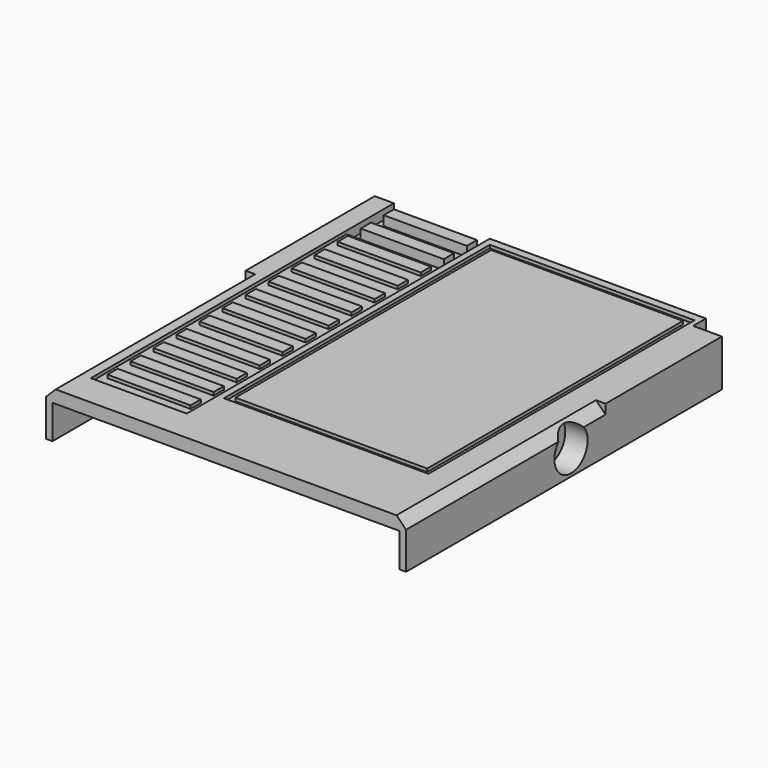
from build123d import *

# Parameters (mm, degrees)
BOX017_W       = 30
BOX017_H       = 50
BOX017_DEPTH   = 0.5
BOX020_W       = 13
BOX020_H       = 2
BOX020_DEPTH   = 1
BOX021_W       = 13
BOX021_H       = 2
BOX021_DEPTH   = 1
BOX022_W       = 13
BOX022_H       = 2
BOX022_DEPTH   = 1
BOX023_W       = 13
BOX023_H       = 2
BOX023_DEPTH   = 1
BOX024_W       = 13
BOX024_H       = 2
BOX024_DEPTH   = 1
BOX025_W       = 13
BOX025_H       = 2
BOX025_DEPTH   = 1
BOX030_W       = 13
BOX030_H       = 2
BOX030_DEPTH   = 1
BOX031_W       = 13
BOX031_H       = 2
BOX031_DEPTH   = 1
BOX032_W       = 13
BOX032_H       = 2
BOX032_DEPTH   = 1
BOX034_W       = 13
BOX034_H       = 2
BOX034_DEPTH   = 1
BOX035_W       = 13
BOX035_H       = 2
BOX035_DEPTH   = 1
BOX038_W       = 13
BOX038_H       = 2
BOX038_DEPTH   = 1.5
BOX040_W       = 13
BOX040_H       = 2
BOX040_DEPTH   = 1.5
BOX043_W       = 13.5
BOX043_H       = 1
BOX043_DEPTH   = 5
CYLINDER_R     = 3.25
CYLINDER_DEPTH = 3.5
BOX042_W       = 54.3
BOX042_H       = 60.25
BOX042_DEPTH   = 5.3
BOX001_W       = 4.5
BOX001_H       = 2.5
BOX001_DEPTH   = 5.3
BOX_W          = 56.3
BOX_H          = 64.25
BOX_DEPTH      = 5.3
BOX041_W       = 32
BOX041_H       = 52
BOX041_DEPTH   = 0.5
BOX018_W       = 15
BOX018_H       = 53
BOX018_DEPTH   = 0.5
BOX008_W       = 56.3
BOX008_H       = 39
BOX008_DEPTH   = 2
CHAMFER_SIZE   = 1.5
BOX019_W       = 15
BOX019_H       = 9.25
BOX019_DEPTH   = 1.5
BOX029_W       = 17
BOX029_H       = 9.25
BOX029_DEPTH   = 1.5
BOX010_W       = 10
BOX010_H       = 10
BOX010_DEPTH   = 10
BOX007_W       = 56.3
BOX007_H       = 25.25
BOX007_DEPTH   = 2
BOX044_W       = 4
BOX044_H       = 8
BOX044_DEPTH   = 5.3


with BuildPart() as obj1:
    # Box017 → Box017 (new body)
    with BuildSketch(Plane(origin=(20, 12, 6.8), x_dir=(1, 0, 0), z_dir=(0, 0, 1))):
        with Locations((15, 25)):
            Rectangle(BOX017_W, BOX017_H)
    extrude(amount=BOX017_DEPTH)


with BuildPart() as cube_ladders:
    # Box020 → Box020 (new body)
    with BuildSketch(Plane(origin=(4, 7, 6.3), x_dir=(1, 0, 0), z_dir=(0, 0, 1))):
        with Locations((6.5, 1)):
            Rectangle(BOX020_W, BOX020_H)
    extrude(amount=BOX020_DEPTH)


with BuildPart() as box021:
    # Box021 → Box021 (new body)
    with BuildSketch(Plane(origin=(4, 11.5, 6.3), x_dir=(1, 0, 0), z_dir=(0, 0, 1))):
        with Locations((6.5, 1)):
            Rectangle(BOX021_W, BOX021_H)
    extrude(amount=BOX021_DEPTH)


with BuildPart() as box022:
    # Box022 → Box022 (new body)
    with BuildSketch(Plane(origin=(4, 16, 6.3), x_dir=(1, 0, 0), z_dir=(0, 0, 1))):
        with Locations((6.5, 1)):
            Rectangle(BOX022_W, BOX022_H)
    extrude(amount=BOX022_DEPTH)


with BuildPart() as box023:
    # Box023 → Box023 (new body)
    with BuildSketch(Plane(origin=(4, 20.5, 6.3), x_dir=(1, 0, 0), z_dir=(0, 0, 1))):
        with Locations((6.5, 1)):
            Rectangle(BOX023_W, BOX023_H)
    extrude(amount=BOX023_DEPTH)


with BuildPart() as box024:
    # Box024 → Box024 (new body)
    with BuildSketch(Plane(origin=(4, 25, 6.3), x_dir=(1, 0, 0), z_dir=(0, 0, 1))):
        with Locations((6.5, 1)):
            Rectangle(BOX024_W, BOX024_H)
    extrude(amount=BOX024_DEPTH)


with BuildPart() as box025:
    # Box025 → Box025 (new body)
    with BuildSketch(Plane(origin=(4, 29.5, 6.3), x_dir=(1, 0, 0), z_dir=(0, 0, 1))):
        with Locations((6.5, 1)):
            Rectangle(BOX025_W, BOX025_H)
    extrude(amount=BOX025_DEPTH)


with BuildPart() as box030:
    # Box030 → Box030 (new body)
    with BuildSketch(Plane(origin=(4, 34, 6.3), x_dir=(1, 0, 0), z_dir=(0, 0, 1))):
        with Locations((6.5, 1)):
            Rectangle(BOX030_W, BOX030_H)
    extrude(amount=BOX030_DEPTH)


with BuildPart() as box031:
    # Box031 → Box031 (new body)
    with BuildSketch(Plane(origin=(4, 38.5, 6.3), x_dir=(1, 0, 0), z_dir=(0, 0, 1))):
        with Locations((6.5, 1)):
            Rectangle(BOX031_W, BOX031_H)
    extrude(amount=BOX031_DEPTH)


with BuildPart() as box032:
    # Box032 → Box032 (new body)
    with BuildSketch(Plane(origin=(4, 43, 6.3), x_dir=(1, 0, 0), z_dir=(0, 0, 1))):
        with Locations((6.5, 1)):
            Rectangle(BOX032_W, BOX032_H)
    extrude(amount=BOX032_DEPTH)


with BuildPart() as box034:
    # Box034 → Box034 (new body)
    with BuildSketch(Plane(origin=(4, 47.5, 6.3), x_dir=(1, 0, 0), z_dir=(0, 0, 1))):
        with Locations((6.5, 1)):
            Rectangle(BOX034_W, BOX034_H)
    extrude(amount=BOX034_DEPTH)


with BuildPart() as box035:
    # Box035 → Box035 (new body)
    with BuildSketch(Plane(origin=(4, 52, 6.3), x_dir=(1, 0, 0), z_dir=(0, 0, 1))):
        with Locations((6.5, 1)):
            Rectangle(BOX035_W, BOX035_H)
    extrude(amount=BOX035_DEPTH)


with BuildPart() as box038:
    # Box038 → Box038 (new body)
    with BuildSketch(Plane(origin=(4, 56.5, 5.8), x_dir=(1, 0, 0), z_dir=(0, 0, 1))):
        with Locations((6.5, 1)):
            Rectangle(BOX038_W, BOX038_H)
    extrude(amount=BOX038_DEPTH)


with BuildPart() as box040:
    # Box040 → Box040 (new body)
    with BuildSketch(Plane(origin=(4, 61, 5.8), x_dir=(1, 0, 0), z_dir=(0, 0, 1))):
        with Locations((6.5, 1)):
            Rectangle(BOX040_W, BOX040_H)
    extrude(amount=BOX040_DEPTH)


with BuildPart() as cube_sd_card_cover:
    # Box043 → Box043 (new body)
    with BuildSketch(Plane(origin=(27.1, 63.25, -5), x_dir=(1, 0, 0), z_dir=(0, 0, 1))):
        with Locations((6.75, 0.5)):
            Rectangle(BOX043_W, BOX043_H)
    extrude(amount=BOX043_DEPTH)


with BuildPart() as cylinder_magnet:
    # Cylinder → Cylinder (new body)
    with BuildSketch(Plane(origin=(52.8, 32.25, 3.7), x_dir=(0, 0, -1), z_dir=(1, 0, 0))):
        Circle(CYLINDER_R)
    extrude(amount=CYLINDER_DEPTH)


with BuildPart() as box042:
    # Box042 → Box042 (new body)
    with BuildSketch(Plane(origin=(1, 0, 0), x_dir=(1, 0, 0), z_dir=(0, 0, 1))):
        with Locations((27.15, 30.125)):
            Rectangle(BOX042_W, BOX042_H)
    extrude(amount=BOX042_DEPTH)


with BuildPart() as cube_corner_inner:
    # Box001 → Box001 (new body)
    with BuildSketch(Plane(origin=(51.8, 61.75, 0), x_dir=(1, 0, 0), z_dir=(0, 0, 1))):
        with Locations((2.25, 1.25)):
            Rectangle(BOX001_W, BOX001_H)
    extrude(amount=BOX001_DEPTH)


with BuildPart() as cut014:
    # Box → Box (new body)
    with BuildSketch(Plane.XY):
        with Locations((28.15, 32.125)):
            Rectangle(BOX_W, BOX_H)
    extrude(amount=BOX_DEPTH)

    # Cut: cut Cube(corner_inner)
    add(cube_corner_inner.part, mode=Mode.SUBTRACT)

    # Cut014: cut Box042
    add(box042.part, mode=Mode.SUBTRACT)


with BuildPart() as obj2:
    # Box041 → Box041 (new body)
    with BuildSketch(Plane(origin=(19, 11, 6.8), x_dir=(1, 0, 0), z_dir=(0, 0, 1))):
        with Locations((16, 26)):
            Rectangle(BOX041_W, BOX041_H)
    extrude(amount=BOX041_DEPTH)


with BuildPart() as cube_cube_strips:
    # Box018 → Box018 (new body)
    with BuildSketch(Plane(origin=(3, 5, 6.8), x_dir=(1, 0, 0), z_dir=(0, 0, 1))):
        with Locations((7.5, 26.5)):
            Rectangle(BOX018_W, BOX018_H)
    extrude(amount=BOX018_DEPTH)


with BuildPart() as chamfer_body:
    # Box008 → Box008 (new body)
    with BuildSketch(Plane.XY.offset(5.3)):
        with Locations((28.15, 19.5)):
            Rectangle(BOX008_W, BOX008_H)
    extrude(amount=BOX008_DEPTH)

    # Chamfer
    chamfer_edges = [chamfer_body.edges().sort_by_distance(p)[0] for p in [
        (0, 19.5, 7.3),
        (56.3, 19.5, 7.3),
    ]]
    chamfer(chamfer_edges, length=CHAMFER_SIZE)


with BuildPart() as cube_cube_strip_top:
    # Box019 → Box019 (new body)
    with BuildSketch(Plane(origin=(3, 55, 5.8), x_dir=(1, 0, 0), z_dir=(0, 0, 1))):
        with Locations((7.5, 4.625)):
            Rectangle(BOX019_W, BOX019_H)
    extrude(amount=BOX019_DEPTH)


with BuildPart() as cube_cube_strip_top_outer:
    # Box029 → Box029 (new body)
    with BuildSketch(Plane(origin=(2, 55, 5.8), x_dir=(1, 0, 0), z_dir=(0, 0, 1))):
        with Locations((8.5, 4.625)):
            Rectangle(BOX029_W, BOX029_H)
    extrude(amount=BOX029_DEPTH)


with BuildPart() as cube_top_corner_cut:
    # Box010 → Box010 (new body)
    with BuildSketch(Plane(origin=(51.8, 61.75, 0), x_dir=(1, 0, 0), z_dir=(0, 0, 1))):
        with Locations((5, 5)):
            Rectangle(BOX010_W, BOX010_H)
    extrude(amount=BOX010_DEPTH)


with BuildPart() as cut013:
    # Box007 → Box007 (new body)
    with BuildSketch(Plane(origin=(0, 39, 5.3), x_dir=(1, 0, 0), z_dir=(0, 0, 1))):
        with Locations((28.15, 12.625)):
            Rectangle(BOX007_W, BOX007_H)
    extrude(amount=BOX007_DEPTH)

    # Cut006: cut Cube(top_corner_cut)
    add(cube_top_corner_cut.part, mode=Mode.SUBTRACT)

    # Fusion003: union Cube(cube_strip_top_outer)
    add(cube_cube_strip_top_outer.part)

    # Cut008: cut Cube(cube_strip_top)
    add(cube_cube_strip_top.part, mode=Mode.SUBTRACT)

    # Fusion004: union Chamfer body
    add(chamfer_body.part)

    # Cut012: cut Cube(cube_strips)
    add(cube_cube_strips.part, mode=Mode.SUBTRACT)

    # Cut013: cut obj2)
    add(obj2.part, mode=Mode.SUBTRACT)


with BuildPart() as cut015:
    # Box044 → Box044 (new body)
    with BuildSketch(Plane(origin=(51.3, 28.25, 0), x_dir=(1, 0, 0), z_dir=(0, 0, 1))):
        with Locations((2, 4)):
            Rectangle(BOX044_W, BOX044_H)
    extrude(amount=BOX044_DEPTH)

    # Fusion: union Cut014, Cut013
    add(cut014.part)
    add(cut013.part)

    # Cut015: cut Cylinder(magnet)
    add(cylinder_magnet.part, mode=Mode.SUBTRACT)


solid = Compound([obj1.part, cube_ladders.part, box021.part, box022.part, box023.part, box024.part, box025.part, box030.part, box031.part, box032.part, box034.part, box035.part, box038.part, box040.part, cube_sd_card_cover.part, cut015.part])
